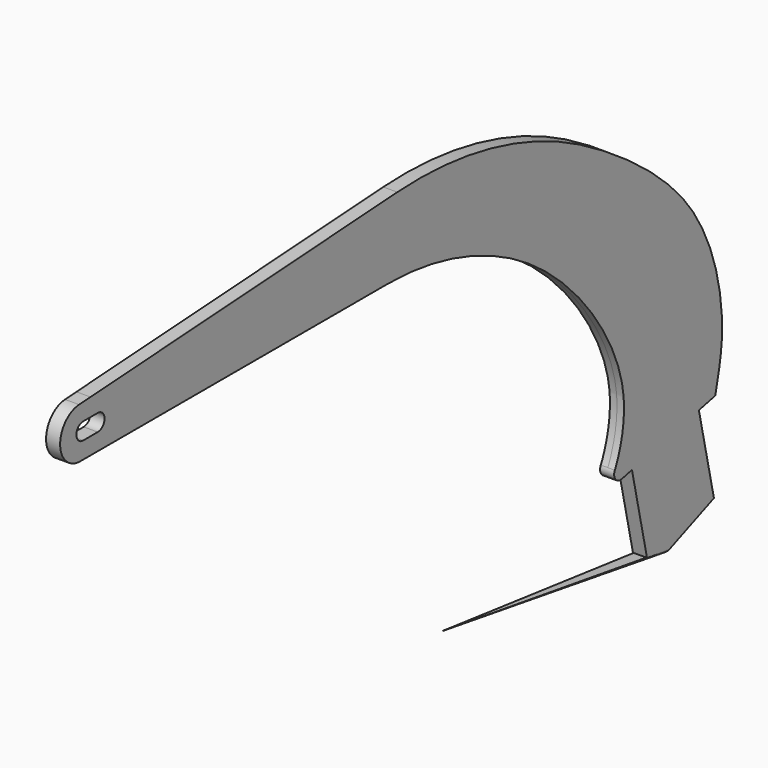
from build123d import *

# Parameters (mm, degrees)
F1_DEPTH = 5
F2_ANGLE = 90


with BuildPart() as f1:
    # F0 (on Front) → F1 (new body, symmetric)
    with BuildSketch(Plane.XZ):
        with BuildLine():
            Line((273, 36), (0, 18.6097864581))
            Line((0, 18.6097864581), (-10.1442882229, 17.9635910793))
            ThreePointArc((-10.1442882229, 17.9635910793), (-26.9908954672, -0.5724336526), (-9, -18))
            Line((-9, -18), (265, -18))
            add(Edge.make_bspline(
                [(265, -18), (310, -18), (406.8679036126, -46.6311179489), (489.31460039, -164.7387197182), (468.8864991068, -212.4993609156), (466.5754698987, -216.9332242423)],
                knots=[0, 0, 0, 0, 0.3972155542, 0.7825964326, 1, 1, 1, 1], degree=3))
            ThreePointArc((466.5754698987, -216.9332242423), (472.8213356215, -214.1061695722), (477.0533174327, -219.5))
            ThreePointArc((477.0533174327, -219.5), (475.8300498393, -222.9770681469), (472.6991622653, -224.9223006529))
            Line((472.6991622653, -224.9223006529), (481.7930329869, -222.9111561664))
            Line((481.7930329869, -222.9111561664), (541.3538880895, -209.7390439802))
            Line((541.3538880895, -209.7390439802), (556, -206.5))
            add(Edge.make_bspline(
                [(435, 0), (456.9281394948, -12.0065273205), (545.1260274002, -66.7040872695), (566.7745237898, -163.0993973046), (559.2541435751, -191.8572355891), (556, -206.5)],
                knots=[0, 0, 0, 0, 0.4044974221, 0.7598198092, 1, 1, 1, 1], degree=3))
            ThreePointArc((435, 0), (356.5575563064, 29.5090033787), (273, 36))
        make_face()
        with BuildLine():
            Line((6.5, -6), (-6.5, -6))
            ThreePointArc((-6.5, -6), (-12.5, 0), (-6.5, 6))
            Line((-6.5, 6), (0, 6))
            Line((0, 6), (6.5, 6))
            ThreePointArc((6.5, 6), (12.5, 0), (6.5, -6))
        make_face(mode=Mode.SUBTRACT)
        with BuildLine():
            ThreePointArc((477.0533174327, -219.5), (472.8213356215, -214.1061695722), (466.5754698987, -216.9332242423))
            ThreePointArc((466.5754698987, -216.9332242423), (467.0925146794, -222.8783735224), (472.6991622653, -224.9223006529))
            ThreePointArc((472.6991622653, -224.9223006529), (475.8300498393, -222.9770681469), (477.0533174327, -219.5))
        make_face()
        Polygon((554.741936541, -270.2763065435), (541.3538880895, -209.7390439802), (481.7930329869, -222.9111561664), (495.1810814384, -283.4484187297), (515.2443770491, -286.180481913), align=None)
    extrude(amount=F1_DEPTH, both=True)


with BuildPart() as f1_1:
    # F2: moved
    add(f1.part.rotate(Axis((0, 0, 97.4653586745), (0, 0, 1)), F2_ANGLE))

    # F4 (on face) → F5 section 0
    with BuildSketch(Plane(origin=(0, 171.0419719317, -424.7777897972), x_dir=(1, 0, 0), z_dir=(0, 0.3735186178, -0.9276226831)), mode=Mode.PRIVATE) as f5_s0:
        with BuildLine():
            Line((-5, -371.0586334279), (5, -371.0586334279))
            ThreePointArc((5, -371.0586334279), (0, -366.0586334279), (-5, -371.0586334279))
        make_face()
    loft([f5_s0.sketch, Vertex(0, 317.4776060293, -259.2501448204)])


with BuildPart() as f1_2:
    # F6: moved
    add(f1_1.part.moved(Location((0, -350, 48))))


with BuildPart() as f1_3:
    # F7: moved
    add(f1_2.part.moved(Location((-30, 0, 0))))


solid = f1_3.part
